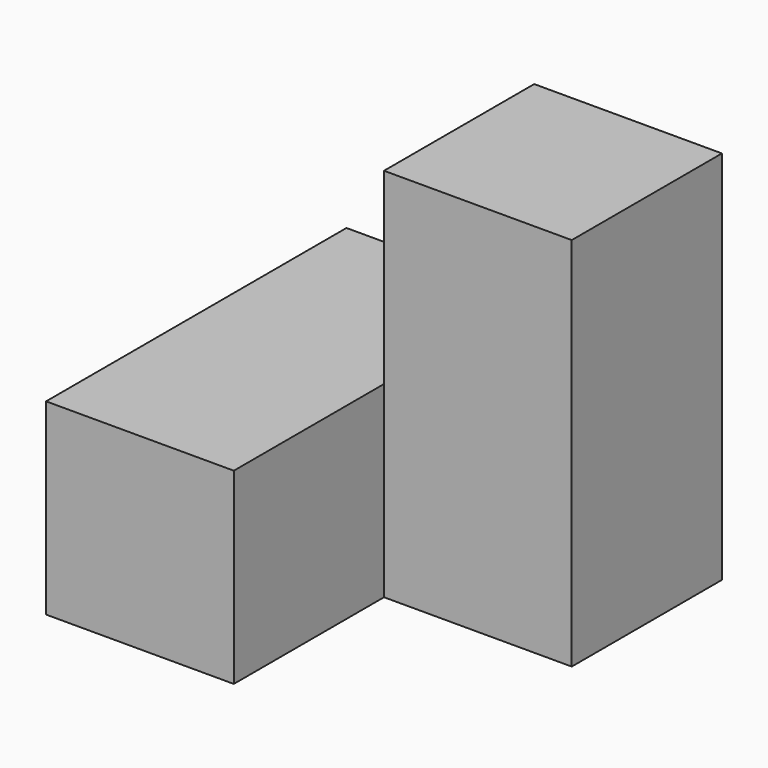
from build123d import *

# Parameters (mm, degrees)
F0_W     = 19.05
F0_H     = 38.1
F1_DEPTH = 19.05
F2_W     = 19.05
F2_H     = 19.05
F3_DEPTH = 19.05


with BuildPart() as f1:
    # F0 (on Front) → F1 (new body)
    with BuildSketch(Plane.XZ):
        with Locations((-15.24, 5.323114)):
            Rectangle(F0_W, F0_H)
    extrude(amount=F1_DEPTH)

    # F2 (on face) → F3 (join)
    with BuildSketch(Plane(origin=(-24.765, 0, 0), x_dir=(0, -1, 0), z_dir=(-1, 0, 0))):
        with Locations((9.525, -4.201886)):
            Rectangle(F2_W, F2_H)
        with Locations((28.575, -4.201886)):
            Rectangle(F2_W, F2_H)
    extrude(amount=F3_DEPTH)


solid = f1.part
